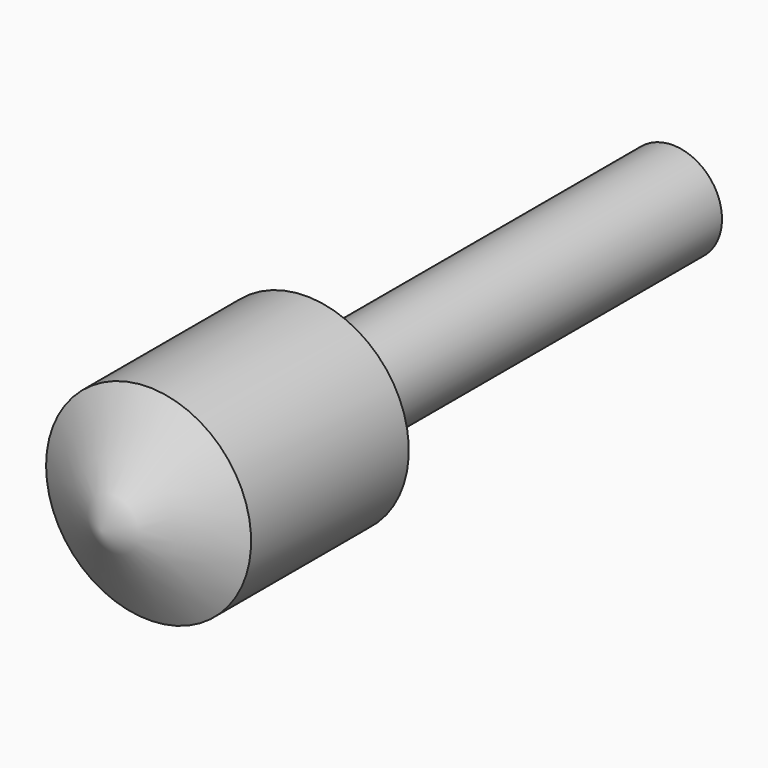
from build123d import *


with BuildPart() as f1:
    # F0 (on Top) → F1 (revolve)
    with BuildSketch(Plane.XY):
        Polygon((0, 76.073148), (-10, 76.073148), (-10, -16.911153), (-20.811802, -16.911153), (-20.811802, -56.911153), (0, -56.911153), align=None)
        Polygon((0, -68.926852), (0, -56.911153), (-20.811802, -56.911153), align=None)
    revolve(axis=Axis((0, 3.573148, 0), (0, -1, 0)))


solid = f1.part
